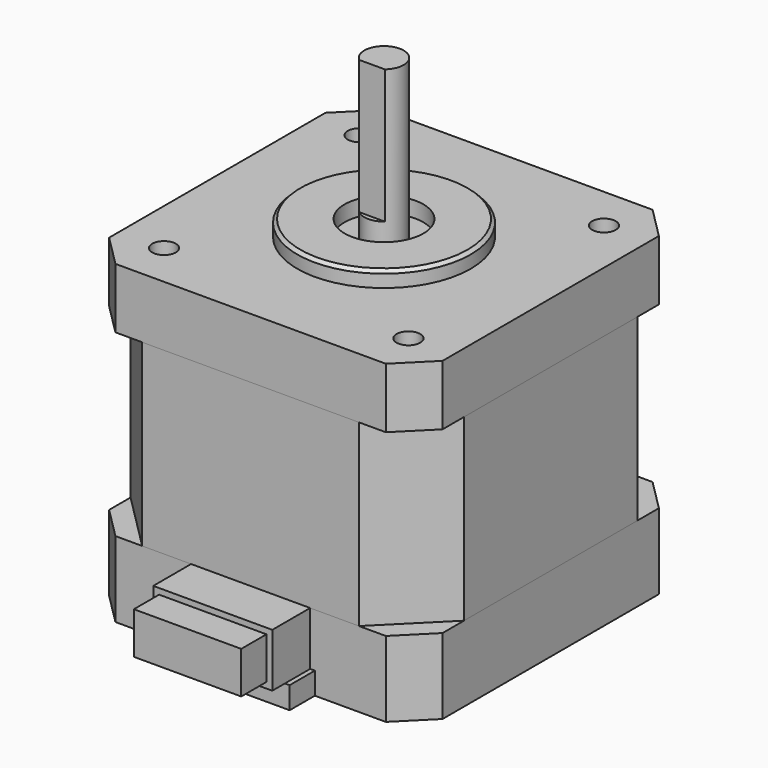
from build123d import *

# Parameters (mm, degrees)
SKETCH_W        = 42.3
SKETCH_H        = 42.3
PAD_DEPTH       = 40
CHAMFER_SIZE    = 4
SKETCH001_R     = 11
PAD001_DEPTH    = 2
CHAMFER001_SIZE = 0.4
SKETCH002_R     = 5
POCKET_DEPTH    = 2
SKETCH003_R     = 4.5
POCKET001_DEPTH = 3
SKETCH004_R     = 1.5
POCKET002_DEPTH = 3
SKETCH005_R     = 1.5
POCKET003_DEPTH = 3
SKETCH006_W     = 16.3
SKETCH006_H     = 2.8
PAD002_DEPTH    = 4
SKETCH007_W     = 15.1
SKETCH007_H     = 6.8
PAD003_DEPTH    = 6
SKETCH008_W     = 13.62
SKETCH008_H     = 5.32
PAD004_DEPTH    = 4
SKETCH009_R     = 2.5
PAD005_DEPTH    = 20
SKETCH010_W     = 5
SKETCH010_H     = 1
POCKET004_DEPTH = 17
SKETCH011_W     = 50
SKETCH011_H     = 22.75
POCKET005_DEPTH = 42.3
BOX_W           = 42.3
BOX_H           = 42.3
BOX_DEPTH       = 22.75
CHAMFER002_SIZE = 7.4


with BuildPart() as pocket005:
    # Sketch → Pad (new body)
    with BuildSketch(Plane.XY):
        Rectangle(SKETCH_W, SKETCH_H)
    extrude(amount=PAD_DEPTH)

    # Chamfer
    chamfer_edges = [pocket005.edges().sort_by_distance(p)[0] for p in [
        (21.15, -21.15, 20),
        (21.15, 21.15, 20),
        (-21.15, 21.15, 20),
        (-21.15, -21.15, 20),
    ]]
    chamfer(chamfer_edges, length=CHAMFER_SIZE)

    # Sketch001 → Pad001 (new body)
    with BuildSketch(Plane.XY.offset(40)):
        Circle(SKETCH001_R)
    extrude(amount=PAD001_DEPTH)

    # Chamfer001
    chamfer001_edges = [pocket005.edges().sort_by_distance(p)[0] for p in [
        (-11, 0, 42),
    ]]
    chamfer(chamfer001_edges, length=CHAMFER001_SIZE)

    # Sketch002 → Pocket (cut)
    with BuildSketch(Plane.XY.offset(42)):
        Circle(SKETCH002_R)
    extrude(amount=-POCKET_DEPTH, mode=Mode.SUBTRACT)

    # Sketch003 → Pocket001 (cut)
    with BuildSketch(Plane(origin=(0, 0, 0), x_dir=(1, 0, 0), z_dir=(0, 0, -1))):
        Circle(SKETCH003_R)
    extrude(amount=-POCKET001_DEPTH, mode=Mode.SUBTRACT)

    # Sketch004 → Pocket002 (cut)
    with BuildSketch(Plane(origin=(0, 0, 0), x_dir=(1, 0, 0), z_dir=(0, 0, -1))):
        with Locations((-15.5, 15.5)):
            Circle(SKETCH004_R)
        with Locations((15.5, 15.5)):
            Circle(SKETCH004_R)
        with Locations((-15.5, -15.5)):
            Circle(SKETCH004_R)
        with Locations((15.5, -15.5)):
            Circle(SKETCH004_R)
    extrude(amount=-POCKET002_DEPTH, mode=Mode.SUBTRACT)

    # Sketch005 → Pocket003 (cut)
    with BuildSketch(Plane.XY.offset(40)):
        with Locations((-15.5, 15.5)):
            Circle(SKETCH005_R)
        with Locations((15.5, 15.5)):
            Circle(SKETCH005_R)
        with Locations((-15.5, -15.5)):
            Circle(SKETCH005_R)
        with Locations((15.5, -15.5)):
            Circle(SKETCH005_R)
    extrude(amount=-POCKET003_DEPTH, mode=Mode.SUBTRACT)

    # Sketch006 → Pad002 (new body)
    with BuildSketch(Plane.XZ.offset(21.15)):
        with Locations((0, 1.4)):
            Rectangle(SKETCH006_W, SKETCH006_H)
    extrude(amount=PAD002_DEPTH)

    # Sketch007 → Pad003 (new body)
    with BuildSketch(Plane.XZ.offset(21.15)):
        with Locations((0, 6.2)):
            Rectangle(SKETCH007_W, SKETCH007_H)
    extrude(amount=PAD003_DEPTH)

    # Sketch008 → Pad004 (new body)
    with BuildSketch(Plane.XZ.offset(27.15)):
        with Locations((0, 6.2)):
            Rectangle(SKETCH008_W, SKETCH008_H)
    extrude(amount=PAD004_DEPTH)

    # Sketch009 → Pad005 (new body)
    with BuildSketch(Plane.XY.offset(40)):
        Circle(SKETCH009_R)
    extrude(amount=PAD005_DEPTH)

    # Sketch010 → Pocket004 (cut)
    with BuildSketch(Plane.XY.offset(60)):
        with Locations((0, -2.4)):
            Rectangle(SKETCH010_W, SKETCH010_H)
    extrude(amount=-POCKET004_DEPTH, mode=Mode.SUBTRACT)

    # Sketch011 → Pocket005 (cut)
    with BuildSketch(Plane.YZ.offset(21.15)):
        with Locations((0, 20.975)):
            Rectangle(SKETCH011_W, SKETCH011_H)
    extrude(amount=-POCKET005_DEPTH, mode=Mode.SUBTRACT)


with BuildPart() as chamfer002:
    # Box → Box (new body)
    with BuildSketch(Plane(origin=(-21.15, -21.15, 9.6), x_dir=(1, 0, 0), z_dir=(0, 0, 1))):
        with Locations((21.15, 21.15)):
            Rectangle(BOX_W, BOX_H)
    extrude(amount=BOX_DEPTH)

    # Chamfer002
    chamfer002_edges = [chamfer002.edges().sort_by_distance(p)[0] for p in [
        (-21.15, -21.15, 20.975),
        (-21.15, 21.15, 20.975),
        (21.15, -21.15, 20.975),
        (21.15, 21.15, 20.975),
    ]]
    chamfer(chamfer002_edges, length=CHAMFER002_SIZE)


solid = Compound([pocket005.part, chamfer002.part])
